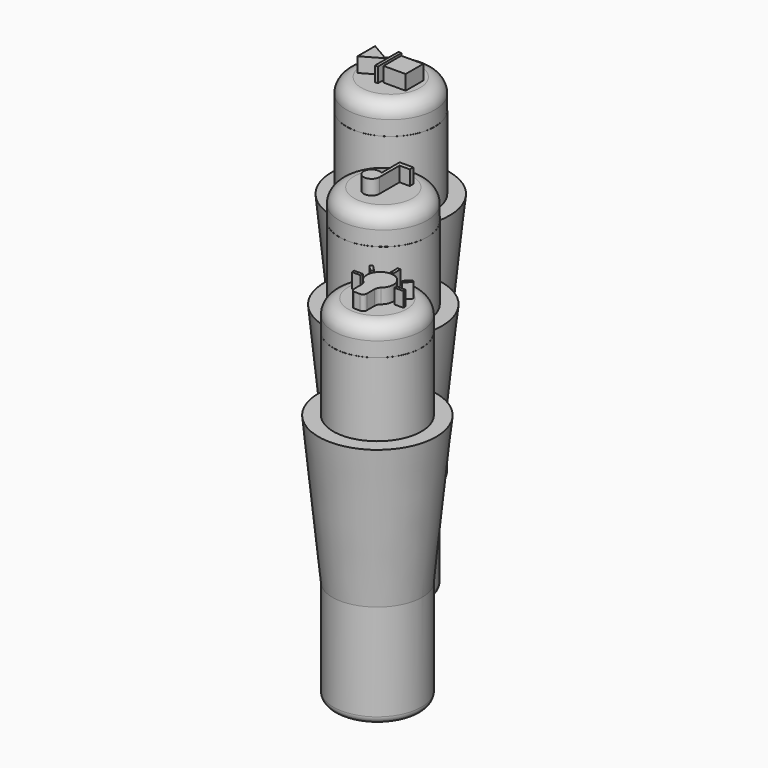
from build123d import *

# Parameters (mm, degrees)
CYLINDER002_R     = 3
CYLINDER002_DEPTH = 22
FILLET023_R       = 0.5
CYLINDER003_R     = 3
CYLINDER003_DEPTH = 7
FILLET022_R       = 1
CYLINDER004_R     = 3
CYLINDER004_DEPTH = 22
FILLET025_R       = 0.5
CYLINDER005_R     = 3
CYLINDER005_DEPTH = 7
FILLET024_R       = 1
CYLINDER024_R     = 3
CYLINDER024_DEPTH = 22
FILLET021_R       = 0.5
CYLINDER025_R     = 3
CYLINDER025_DEPTH = 7
FILLET020_R       = 1
SKETCH022_W       = 1.5
SKETCH022_H       = 1.5
SKETCH022_W_2     = 0.2
SKETCH022_H_2     = 2
SKETCH022_H_3     = 0.6
SKETCH022_W_3     = 0.6
SKETCH022_H_4     = 0.2
EXTRUDE005_DEPTH  = 1


with BuildPart() as fillet023:
    # Cylinder002 → Cylinder002 (new body)
    with BuildSketch(Plane(origin=(-43.635, 0.385, 10.17), x_dir=(1, 0, 0), z_dir=(0, 0, 1))):
        Circle(CYLINDER002_R)
    extrude(amount=CYLINDER002_DEPTH)

    # Fillet023
    fillet023_edges = [fillet023.edges().sort_by_distance(p)[0] for p in [
        (-46.635, 0.385, 10.17),
    ]]
    fillet(fillet023_edges, radius=FILLET023_R)


with BuildPart() as cone002:
    # Cone002 → Cone002 (revolve)
    with BuildSketch(Plane(origin=(-43.64, 0.39, 17.17), x_dir=(1, 0, 0), z_dir=(0, -1, 0))):
        Polygon((0, 0), (3, 0), (4, 10), (0, 10), align=None)
    revolve(axis=Axis((-43.64, 0.39, 17.17), (0, 0, 1)))


with BuildPart() as fusion017:
    # Cylinder003 → Cylinder003 (new body)
    with BuildSketch(Plane(origin=(-43.64, 0.39, 27.17), x_dir=(1, 0, 0), z_dir=(0, 0, 1))):
        Circle(CYLINDER003_R)
    extrude(amount=CYLINDER003_DEPTH)

    # Fillet022
    fillet022_edges = [fusion017.edges().sort_by_distance(p)[0] for p in [
        (-46.64, 0.39, 34.17),
    ]]
    fillet(fillet022_edges, radius=FILLET022_R)

    # Fusion017: union Fillet023, Cone002
    add(fillet023.part)
    add(cone002.part)


with BuildPart() as fusion017_1:
    # Fusion017 placement: moved
    add(fusion017.part.moved(Location((7.62, -10.16, 0))))


with BuildPart() as fillet025:
    # Cylinder004 → Cylinder004 (new body)
    with BuildSketch(Plane(origin=(-43.635, 0.385, 10.17), x_dir=(1, 0, 0), z_dir=(0, 0, 1))):
        Circle(CYLINDER004_R)
    extrude(amount=CYLINDER004_DEPTH)

    # Fillet025
    fillet025_edges = [fillet025.edges().sort_by_distance(p)[0] for p in [
        (-46.635, 0.385, 10.17),
    ]]
    fillet(fillet025_edges, radius=FILLET025_R)


with BuildPart() as cone003:
    # Cone003 → Cone003 (revolve)
    with BuildSketch(Plane(origin=(-43.64, 0.39, 17.17), x_dir=(1, 0, 0), z_dir=(0, -1, 0))):
        Polygon((0, 0), (3, 0), (4, 10), (0, 10), align=None)
    revolve(axis=Axis((-43.64, 0.39, 17.17), (0, 0, 1)))


with BuildPart() as fusion018:
    # Cylinder005 → Cylinder005 (new body)
    with BuildSketch(Plane(origin=(-43.64, 0.39, 27.17), x_dir=(1, 0, 0), z_dir=(0, 0, 1))):
        Circle(CYLINDER005_R)
    extrude(amount=CYLINDER005_DEPTH)

    # Fillet024
    fillet024_edges = [fusion018.edges().sort_by_distance(p)[0] for p in [
        (-46.64, 0.39, 34.17),
    ]]
    fillet(fillet024_edges, radius=FILLET024_R)

    # Fusion018: union Fillet025, Cone003
    add(fillet025.part)
    add(cone003.part)


with BuildPart() as fusion018_1:
    # Fusion018 placement: moved
    add(fusion018.part.moved(Location((15.342, -20.315, 0))))


with BuildPart() as fillet021:
    # Cylinder024 → Cylinder024 (new body)
    with BuildSketch(Plane(origin=(-43.635, 0.385, 10.17), x_dir=(1, 0, 0), z_dir=(0, 0, 1))):
        Circle(CYLINDER024_R)
    extrude(amount=CYLINDER024_DEPTH)

    # Fillet021
    fillet021_edges = [fillet021.edges().sort_by_distance(p)[0] for p in [
        (-46.635, 0.385, 10.17),
    ]]
    fillet(fillet021_edges, radius=FILLET021_R)


with BuildPart() as cone001:
    # Cone001 → Cone001 (revolve)
    with BuildSketch(Plane(origin=(-43.64, 0.39, 17.17), x_dir=(1, 0, 0), z_dir=(0, -1, 0))):
        Polygon((0, 0), (3, 0), (4, 10), (0, 10), align=None)
    revolve(axis=Axis((-43.64, 0.39, 17.17), (0, 0, 1)))


with BuildPart() as body020:
    # Cylinder025 → Cylinder025 (new body)
    with BuildSketch(Plane(origin=(-43.64, 0.39, 27.17), x_dir=(1, 0, 0), z_dir=(0, 0, 1))):
        Circle(CYLINDER025_R)
    extrude(amount=CYLINDER025_DEPTH)

    # Fillet020
    fillet020_edges = [body020.edges().sort_by_distance(p)[0] for p in [
        (-46.64, 0.39, 34.17),
    ]]
    fillet(fillet020_edges, radius=FILLET020_R)

    # Fusion016: union Fillet021, Cone001
    add(fillet021.part)
    add(cone001.part)

    # Compound001: union Fusion017, Fusion018
    add(fusion017_1.part)
    add(fusion018_1.part)


with BuildPart() as body020_1:
    # Compound001 placement: moved
    add(body020.part.moved(Location((0, 0, 9))))


with BuildPart() as body021:
    # Sketch022 (on Face12 of Clone020) → Extrude005 (new body)
    with BuildSketch(Plane.XY.offset(43.17)):
        with Locations((-42.779026, 0.39)):
            Rectangle(SKETCH022_W, SKETCH022_H)
        Polygon((-45.302553, 1.14), (-45.302553, -0.36), (-44.003515, 0.39), align=None)
        with Locations((-43.815157, 0.39)):
            Rectangle(SKETCH022_W_2, SKETCH022_H_2)
        with BuildLine():
            Line((-35.934601, -8.483834), (-35.008926, -8.483834))
            Line((-35.008926, -8.483834), (-35.008926, -8.782059))
            Line((-35.008926, -8.782059), (-35.706485, -8.782059))
            Line((-35.706485, -8.782059), (-35.706485, -10.480436))
            ThreePointArc((-35.934601, -10.039592), (-36.726143, -10.72862), (-35.706485, -10.480436))
            Line((-35.934601, -8.483834), (-35.934601, -10.039592))
        make_face()
        with BuildLine():
            Line((-28.734683, -20.710587), (-28.734683, -21.371686))
            ThreePointArc((-28.734683, -21.371686), (-28.662464, -21.546037), (-28.488113, -21.618256))
            Line((-28.488113, -21.618256), (-28.108879, -21.618256))
            ThreePointArc((-28.108879, -21.618256), (-27.934528, -21.546037), (-27.86231, -21.371686))
            Line((-27.86231, -21.371686), (-27.86231, -20.710587))
            ThreePointArc((-27.705358, -20.362501), (-27.821258, -20.51967), (-27.86231, -20.710587))
            ThreePointArc((-27.705358, -20.362501), (-28.313914, -18.778729), (-28.89034, -20.374476))
            ThreePointArc((-28.734683, -20.710587), (-28.775486, -20.525384), (-28.89034, -20.374476))
        make_face()
        with Locations((-28.310402, -18.360616)):
            Rectangle(SKETCH022_W_2, SKETCH022_H_3)
        with Locations((-29.734853, -19.824359)):
            Rectangle(SKETCH022_W_3, SKETCH022_H_4)
        with Locations((-26.831686, -19.824359)):
            Rectangle(SKETCH022_W_3, SKETCH022_H_4)
        Polygon((-27.329626, -19.057547), (-26.905362, -18.633283), (-26.76394, -18.774705), (-27.188204, -19.198969), align=None)
        Polygon((-29.359791, -19.198969), (-29.218369, -19.057547), (-29.632532, -18.623417), (-29.773953, -18.764838), align=None)
    extrude(amount=EXTRUDE005_DEPTH)

    # Fusion019: union Body020
    add(body020_1.part)


solid = body021.part
